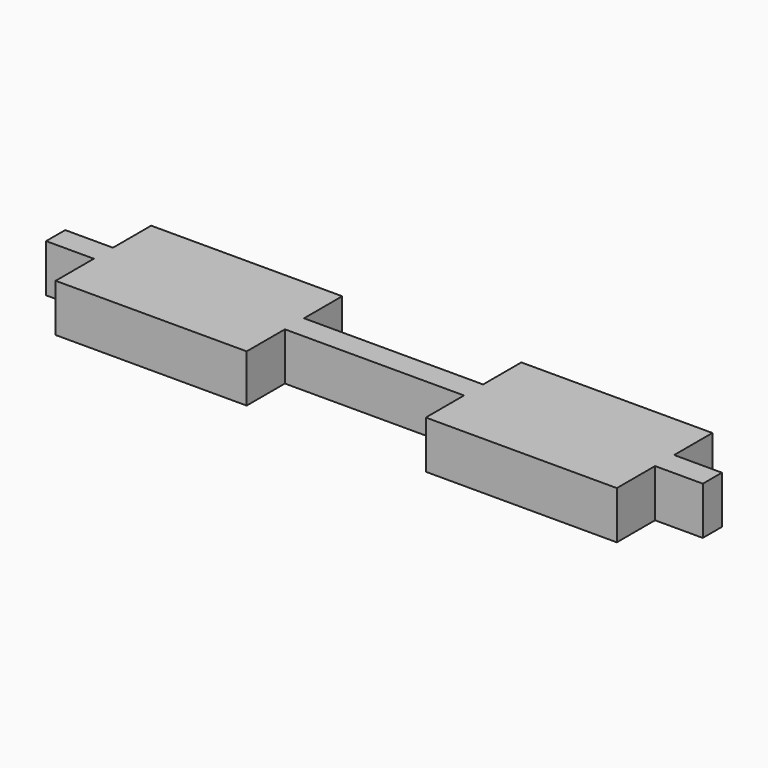
from build123d import *

# Parameters (mm, degrees)
F1_DEPTH = 5.08


with BuildPart() as f1:
    # F0 (on Top) → F1 (new body)
    with BuildSketch(Plane.XY):
        Polygon((25.4, 0), (5.08, 0), (5.08, -5.08), (0, -5.08), (0, -7.62), (5.08, -7.62), (5.08, -12.7), (25.4, -12.7), (25.4, -7.62), (44.45, -7.62), (44.45, -12.7), (64.77, -12.7), (64.77, -7.62), (69.85, -7.62), (69.85, -5.08), (64.77, -5.08), (64.77, 0), (44.45, 0), (44.45, -5.08), (25.4, -5.08), align=None)
    extrude(amount=F1_DEPTH)


solid = f1.part
